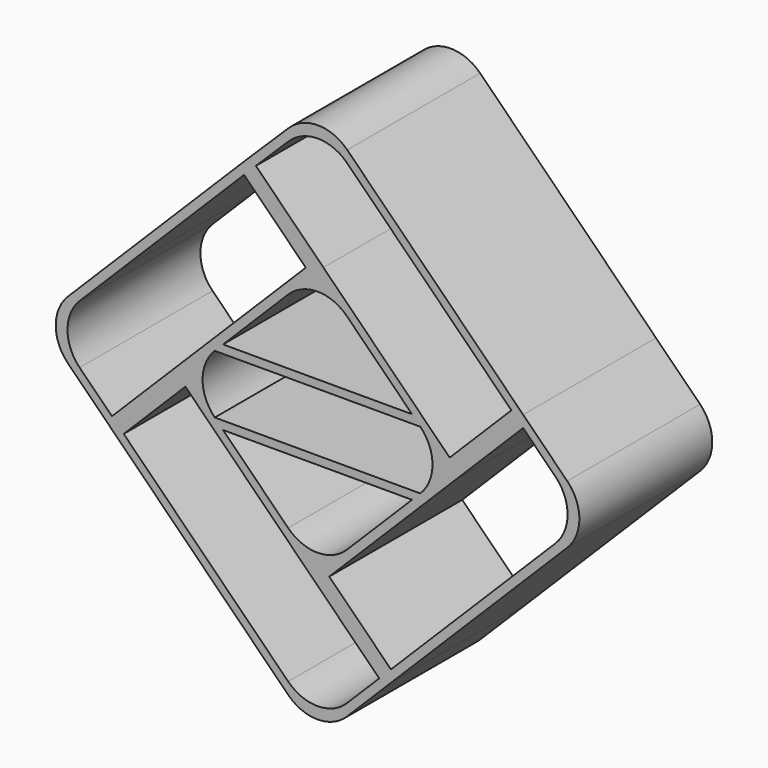
from build123d import *

# Parameters (mm, degrees)
F1_DEPTH = 200
F2_DEPTH = 200


with BuildPart() as f1:
    # F0 (on Front) → F1 (new body)
    with BuildSketch(Plane.XZ):
        with BuildLine():
            Line((299.884558, 36.007969), (246.847851, 89.042397))
            Line((246.847851, 89.042397), (35.098199, 300.781197))
            ThreePointArc((35.098199, 300.781197), (-0.074387, 315.424621), (-35.352556, 301.037423))
            Line((-35.352556, 301.037423), (-89.03118, 248.136791))
            Line((-89.03118, 248.136791), (-301.162203, 36.006278))
            ThreePointArc((-301.162203, 36.006278), (-315.806906, 0.651524), (-301.16309, -34.703597))
            Line((-301.16309, -34.703597), (-248.130547, -87.738676))
            Line((-248.130547, -87.738676), (-35.995554, -299.862797))
            ThreePointArc((-35.995554, -299.862797), (-0.641078, -314.506552), (34.713373, -299.862736))
            Line((34.713373, -299.862736), (87.7494, -246.829244))
            Line((87.7494, -246.829244), (299.884472, -34.704314))
            ThreePointArc((299.884472, -34.704314), (314.529978, 0.651809), (299.884558, 36.007969))
        make_face()
        with BuildLine():
            Line((73.606909, -246.829261), (34.71336, -285.72095))
            ThreePointArc((34.71336, -285.72095), (-0.64109, -300.364766), (-35.995566, -285.721011))
            Line((-35.995566, -285.721011), (-233.988382, -87.738343))
            Line((-233.988382, -87.738343), (-159.74383, -13.490596))
            Line((-159.74383, -13.490596), (-7.711945, -165.514689))
            Line((-7.711945, -165.514689), (73.606909, -246.829261))
        make_face(mode=Mode.SUBTRACT)
        with BuildLine():
            Line((246.848184, 74.900232), (285.742101, 36.007986))
            ThreePointArc((285.742101, 36.007986), (300.387522, 0.651827), (285.742016, -34.704297))
            Line((285.742016, -34.704297), (87.749383, -232.687464))
            Line((87.749383, -232.687464), (13.50143, -158.443421))
            Line((13.50143, -158.443421), (165.532843, -6.419277))
            Line((165.532843, -6.419277), (246.848184, 74.900232))
        make_face(mode=Mode.SUBTRACT)
        with BuildLine():
            Line((-166.815223, 7.722587), (-248.13053, -73.596219))
            Line((-248.13053, -73.596219), (-287.021115, -34.703775))
            ThreePointArc((-287.021115, -34.703775), (-301.664931, 0.651347), (-287.020228, 36.006101))
            Line((-287.020228, 36.006101), (-241.061024, 81.965194))
            Line((-241.061024, 81.965194), (-89.031197, 233.994655))
            Line((-89.031197, 233.994655), (-14.78363, 159.74691))
            Line((-14.78363, 159.74691), (-166.815223, 7.722587))
        make_face(mode=Mode.SUBTRACT)
        with BuildLine():
            Line((113.103268, 46.00796), (123.103772, 36.007969))
            ThreePointArc((123.103772, 36.007969), (137.749339, 0.651767), (123.103833, -34.704461))
            Line((123.103833, -34.704461), (113.103346, -44.704469))
            Line((113.103346, -44.704469), (34.713373, -123.090695))
            ThreePointArc((34.713373, -123.090695), (-0.641078, -137.734511), (-35.995554, -123.090756))
            Line((-35.995554, -123.090756), (-114.385663, -44.704665))
            Line((-114.385663, -44.704665), (-124.386167, -34.704674))
            ThreePointArc((-124.386167, -34.704674), (-139.031734, 0.651528), (-124.386228, 36.007756))
            Line((-124.386228, 36.007756), (-114.385741, 46.007764))
            Line((-114.385741, 46.007764), (-35.995767, 124.39399))
            ThreePointArc((-35.995767, 124.39399), (-0.641316, 139.037806), (34.71316, 124.394051))
            Line((34.71316, 124.394051), (113.103268, 46.00796))
        make_face(mode=Mode.SUBTRACT)
        with BuildLine():
            Line((-74.837248, 248.084978), (-35.403803, 286.946894))
            ThreePointArc((-35.403803, 286.946894), (-0.125633, 301.334092), (35.046953, 286.690667))
            Line((35.046953, 286.690667), (232.705716, 89.042035))
            Line((232.705716, 89.042035), (158.461406, 14.79392))
            Line((158.461406, 14.79392), (6.429647, 166.817887))
            Line((6.429647, 166.817887), (-74.837248, 248.084978))
        make_face(mode=Mode.SUBTRACT)
        with BuildLine():
            Line((299.884558, 36.007969), (246.847851, 89.042397))
            Line((246.847851, 89.042397), (35.098199, 300.781197))
            ThreePointArc((35.098199, 300.781197), (-0.074387, 315.424621), (-35.352556, 301.037423))
            Line((-35.352556, 301.037423), (-89.03118, 248.136791))
            Line((-89.03118, 248.136791), (-301.162203, 36.006278))
            ThreePointArc((-301.162203, 36.006278), (-315.806906, 0.651524), (-301.16309, -34.703597))
            Line((-301.16309, -34.703597), (-248.130547, -87.738676))
            Line((-248.130547, -87.738676), (-35.995554, -299.862797))
            ThreePointArc((-35.995554, -299.862797), (-0.641078, -314.506552), (34.713373, -299.862736))
            Line((34.713373, -299.862736), (87.7494, -246.829244))
            Line((87.7494, -246.829244), (299.884472, -34.704314))
            ThreePointArc((299.884472, -34.704314), (314.529978, 0.651809), (299.884558, 36.007969))
        make_face()
        with BuildLine():
            Line((73.606909, -246.829261), (34.71336, -285.72095))
            ThreePointArc((34.71336, -285.72095), (-0.64109, -300.364766), (-35.995566, -285.721011))
            Line((-35.995566, -285.721011), (-233.988382, -87.738343))
            Line((-233.988382, -87.738343), (-159.74383, -13.490596))
            Line((-159.74383, -13.490596), (-7.711945, -165.514689))
            Line((-7.711945, -165.514689), (73.606909, -246.829261))
        make_face(mode=Mode.SUBTRACT)
        with BuildLine():
            Line((246.848184, 74.900232), (285.742101, 36.007986))
            ThreePointArc((285.742101, 36.007986), (300.387522, 0.651827), (285.742016, -34.704297))
            Line((285.742016, -34.704297), (87.749383, -232.687464))
            Line((87.749383, -232.687464), (13.50143, -158.443421))
            Line((13.50143, -158.443421), (165.532843, -6.419277))
            Line((165.532843, -6.419277), (246.848184, 74.900232))
        make_face(mode=Mode.SUBTRACT)
        with BuildLine():
            Line((-166.815223, 7.722587), (-248.13053, -73.596219))
            Line((-248.13053, -73.596219), (-287.021115, -34.703775))
            ThreePointArc((-287.021115, -34.703775), (-301.664931, 0.651347), (-287.020228, 36.006101))
            Line((-287.020228, 36.006101), (-241.061024, 81.965194))
            Line((-241.061024, 81.965194), (-89.031197, 233.994655))
            Line((-89.031197, 233.994655), (-14.78363, 159.74691))
            Line((-14.78363, 159.74691), (-166.815223, 7.722587))
        make_face(mode=Mode.SUBTRACT)
        with BuildLine():
            Line((113.103268, 46.00796), (123.103772, 36.007969))
            ThreePointArc((123.103772, 36.007969), (137.749339, 0.651767), (123.103833, -34.704461))
            Line((123.103833, -34.704461), (113.103346, -44.704469))
            Line((113.103346, -44.704469), (34.713373, -123.090695))
            ThreePointArc((34.713373, -123.090695), (-0.641078, -137.734511), (-35.995554, -123.090756))
            Line((-35.995554, -123.090756), (-114.385663, -44.704665))
            Line((-114.385663, -44.704665), (-124.386167, -34.704674))
            ThreePointArc((-124.386167, -34.704674), (-139.031734, 0.651528), (-124.386228, 36.007756))
            Line((-124.386228, 36.007756), (-114.385741, 46.007764))
            Line((-114.385741, 46.007764), (-35.995767, 124.39399))
            ThreePointArc((-35.995767, 124.39399), (-0.641316, 139.037806), (34.71316, 124.394051))
            Line((34.71316, 124.394051), (113.103268, 46.00796))
        make_face(mode=Mode.SUBTRACT)
        with BuildLine():
            Line((-74.837248, 248.084978), (-35.403803, 286.946894))
            ThreePointArc((-35.403803, 286.946894), (-0.125633, 301.334092), (35.046953, 286.690667))
            Line((35.046953, 286.690667), (232.705716, 89.042035))
            Line((232.705716, 89.042035), (158.461406, 14.79392))
            Line((158.461406, 14.79392), (6.429647, 166.817887))
            Line((6.429647, 166.817887), (-74.837248, 248.084978))
        make_face(mode=Mode.SUBTRACT)
        with BuildLine():
            Line((299.884558, 36.007969), (246.847851, 89.042397))
            Line((246.847851, 89.042397), (35.098199, 300.781197))
            ThreePointArc((35.098199, 300.781197), (-0.074387, 315.424621), (-35.352556, 301.037423))
            Line((-35.352556, 301.037423), (-89.03118, 248.136791))
            Line((-89.03118, 248.136791), (-301.162203, 36.006278))
            ThreePointArc((-301.162203, 36.006278), (-315.806906, 0.651524), (-301.16309, -34.703597))
            Line((-301.16309, -34.703597), (-248.130547, -87.738676))
            Line((-248.130547, -87.738676), (-35.995554, -299.862797))
            ThreePointArc((-35.995554, -299.862797), (-0.641078, -314.506552), (34.713373, -299.862736))
            Line((34.713373, -299.862736), (87.7494, -246.829244))
            Line((87.7494, -246.829244), (299.884472, -34.704314))
            ThreePointArc((299.884472, -34.704314), (314.529978, 0.651809), (299.884558, 36.007969))
        make_face()
        with BuildLine():
            Line((73.606909, -246.829261), (34.71336, -285.72095))
            ThreePointArc((34.71336, -285.72095), (-0.64109, -300.364766), (-35.995566, -285.721011))
            Line((-35.995566, -285.721011), (-233.988382, -87.738343))
            Line((-233.988382, -87.738343), (-159.74383, -13.490596))
            Line((-159.74383, -13.490596), (-7.711945, -165.514689))
            Line((-7.711945, -165.514689), (73.606909, -246.829261))
        make_face(mode=Mode.SUBTRACT)
        with BuildLine():
            Line((246.848184, 74.900232), (285.742101, 36.007986))
            ThreePointArc((285.742101, 36.007986), (300.387522, 0.651827), (285.742016, -34.704297))
            Line((285.742016, -34.704297), (87.749383, -232.687464))
            Line((87.749383, -232.687464), (13.50143, -158.443421))
            Line((13.50143, -158.443421), (165.532843, -6.419277))
            Line((165.532843, -6.419277), (246.848184, 74.900232))
        make_face(mode=Mode.SUBTRACT)
        with BuildLine():
            Line((-166.815223, 7.722587), (-248.13053, -73.596219))
            Line((-248.13053, -73.596219), (-287.021115, -34.703775))
            ThreePointArc((-287.021115, -34.703775), (-301.664931, 0.651347), (-287.020228, 36.006101))
            Line((-287.020228, 36.006101), (-241.061024, 81.965194))
            Line((-241.061024, 81.965194), (-89.031197, 233.994655))
            Line((-89.031197, 233.994655), (-14.78363, 159.74691))
            Line((-14.78363, 159.74691), (-166.815223, 7.722587))
        make_face(mode=Mode.SUBTRACT)
        with BuildLine():
            Line((113.103268, 46.00796), (123.103772, 36.007969))
            ThreePointArc((123.103772, 36.007969), (137.749339, 0.651767), (123.103833, -34.704461))
            Line((123.103833, -34.704461), (113.103346, -44.704469))
            Line((113.103346, -44.704469), (34.713373, -123.090695))
            ThreePointArc((34.713373, -123.090695), (-0.641078, -137.734511), (-35.995554, -123.090756))
            Line((-35.995554, -123.090756), (-114.385663, -44.704665))
            Line((-114.385663, -44.704665), (-124.386167, -34.704674))
            ThreePointArc((-124.386167, -34.704674), (-139.031734, 0.651528), (-124.386228, 36.007756))
            Line((-124.386228, 36.007756), (-114.385741, 46.007764))
            Line((-114.385741, 46.007764), (-35.995767, 124.39399))
            ThreePointArc((-35.995767, 124.39399), (-0.641316, 139.037806), (34.71316, 124.394051))
            Line((34.71316, 124.394051), (113.103268, 46.00796))
        make_face(mode=Mode.SUBTRACT)
        with BuildLine():
            Line((-74.837248, 248.084978), (-35.403803, 286.946894))
            ThreePointArc((-35.403803, 286.946894), (-0.125633, 301.334092), (35.046953, 286.690667))
            Line((35.046953, 286.690667), (232.705716, 89.042035))
            Line((232.705716, 89.042035), (158.461406, 14.79392))
            Line((158.461406, 14.79392), (6.429647, 166.817887))
            Line((6.429647, 166.817887), (-74.837248, 248.084978))
        make_face(mode=Mode.SUBTRACT)
        with BuildLine():
            Line((299.884558, 36.007969), (246.847851, 89.042397))
            Line((246.847851, 89.042397), (35.098199, 300.781197))
            ThreePointArc((35.098199, 300.781197), (-0.074387, 315.424621), (-35.352556, 301.037423))
            Line((-35.352556, 301.037423), (-89.03118, 248.136791))
            Line((-89.03118, 248.136791), (-301.162203, 36.006278))
            ThreePointArc((-301.162203, 36.006278), (-315.806906, 0.651524), (-301.16309, -34.703597))
            Line((-301.16309, -34.703597), (-248.130547, -87.738676))
            Line((-248.130547, -87.738676), (-35.995554, -299.862797))
            ThreePointArc((-35.995554, -299.862797), (-0.641078, -314.506552), (34.713373, -299.862736))
            Line((34.713373, -299.862736), (87.7494, -246.829244))
            Line((87.7494, -246.829244), (299.884472, -34.704314))
            ThreePointArc((299.884472, -34.704314), (314.529978, 0.651809), (299.884558, 36.007969))
        make_face()
        with BuildLine():
            Line((73.606909, -246.829261), (34.71336, -285.72095))
            ThreePointArc((34.71336, -285.72095), (-0.64109, -300.364766), (-35.995566, -285.721011))
            Line((-35.995566, -285.721011), (-233.988382, -87.738343))
            Line((-233.988382, -87.738343), (-159.74383, -13.490596))
            Line((-159.74383, -13.490596), (-7.711945, -165.514689))
            Line((-7.711945, -165.514689), (73.606909, -246.829261))
        make_face(mode=Mode.SUBTRACT)
        with BuildLine():
            Line((246.848184, 74.900232), (285.742101, 36.007986))
            ThreePointArc((285.742101, 36.007986), (300.387522, 0.651827), (285.742016, -34.704297))
            Line((285.742016, -34.704297), (87.749383, -232.687464))
            Line((87.749383, -232.687464), (13.50143, -158.443421))
            Line((13.50143, -158.443421), (165.532843, -6.419277))
            Line((165.532843, -6.419277), (246.848184, 74.900232))
        make_face(mode=Mode.SUBTRACT)
        with BuildLine():
            Line((-166.815223, 7.722587), (-248.13053, -73.596219))
            Line((-248.13053, -73.596219), (-287.021115, -34.703775))
            ThreePointArc((-287.021115, -34.703775), (-301.664931, 0.651347), (-287.020228, 36.006101))
            Line((-287.020228, 36.006101), (-241.061024, 81.965194))
            Line((-241.061024, 81.965194), (-89.031197, 233.994655))
            Line((-89.031197, 233.994655), (-14.78363, 159.74691))
            Line((-14.78363, 159.74691), (-166.815223, 7.722587))
        make_face(mode=Mode.SUBTRACT)
        with BuildLine():
            Line((113.103268, 46.00796), (123.103772, 36.007969))
            ThreePointArc((123.103772, 36.007969), (137.749339, 0.651767), (123.103833, -34.704461))
            Line((123.103833, -34.704461), (113.103346, -44.704469))
            Line((113.103346, -44.704469), (34.713373, -123.090695))
            ThreePointArc((34.713373, -123.090695), (-0.641078, -137.734511), (-35.995554, -123.090756))
            Line((-35.995554, -123.090756), (-114.385663, -44.704665))
            Line((-114.385663, -44.704665), (-124.386167, -34.704674))
            ThreePointArc((-124.386167, -34.704674), (-139.031734, 0.651528), (-124.386228, 36.007756))
            Line((-124.386228, 36.007756), (-114.385741, 46.007764))
            Line((-114.385741, 46.007764), (-35.995767, 124.39399))
            ThreePointArc((-35.995767, 124.39399), (-0.641316, 139.037806), (34.71316, 124.394051))
            Line((34.71316, 124.394051), (113.103268, 46.00796))
        make_face(mode=Mode.SUBTRACT)
        with BuildLine():
            Line((-74.837248, 248.084978), (-35.403803, 286.946894))
            ThreePointArc((-35.403803, 286.946894), (-0.125633, 301.334092), (35.046953, 286.690667))
            Line((35.046953, 286.690667), (232.705716, 89.042035))
            Line((232.705716, 89.042035), (158.461406, 14.79392))
            Line((158.461406, 14.79392), (6.429647, 166.817887))
            Line((6.429647, 166.817887), (-74.837248, 248.084978))
        make_face(mode=Mode.SUBTRACT)
    extrude(amount=F1_DEPTH)

    # F0 (on Front) → F2 (join)
    with BuildSketch(Plane.XZ):
        Polygon((-124.386228, 36.007756), (123.103772, 36.007969), (113.103268, 46.00796), (-114.385741, 46.007764), align=None)
        Polygon((113.103346, -44.704469), (123.103833, -34.704461), (-124.386167, -34.704674), (-114.385663, -44.704665), align=None)
    extrude(amount=F2_DEPTH)


solid = f1.part
